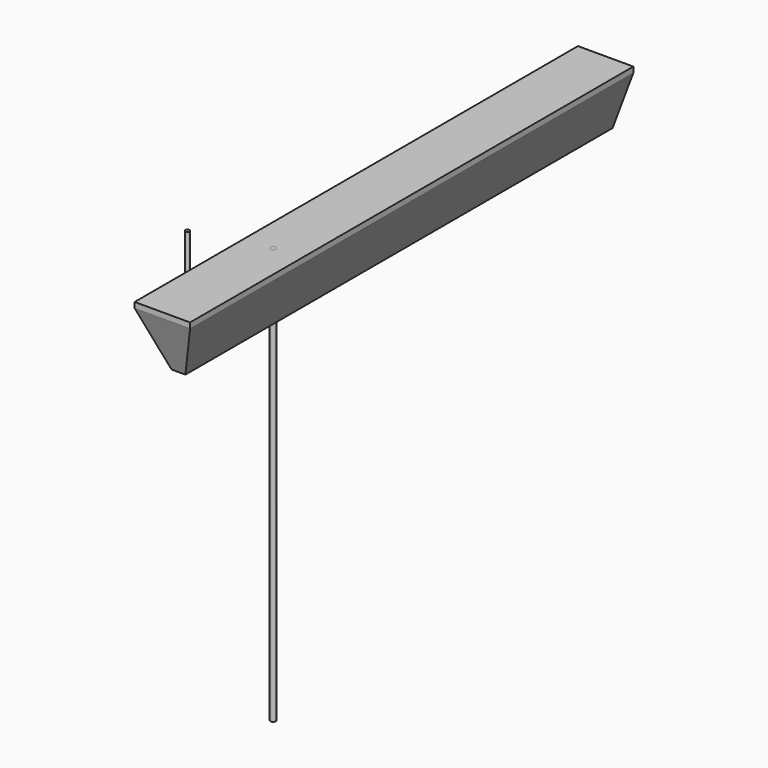
from build123d import *

# Parameters (mm, degrees)
F0_W      = 20
F0_H      = 200
F1_DEPTH  = 20
F3_DEPTH  = 200.001
F5_DEPTH  = 20.001
F6_W      = 20
F6_H      = 200
F7_DEPTH  = 2
F8_R      = 1
F9_DEPTH  = 150
F10_R     = 0.75
F11_DEPTH = 20


with BuildPart() as f1:
    # F0 (on Top) → F1 (new body)
    with BuildSketch(Plane.XY):
        with Locations((10, 100)):
            Rectangle(F0_W, F0_H)
    extrude(amount=F1_DEPTH)

    # F2 (on face) → F3 (cut, through all)
    with BuildSketch(Plane.XZ):
        Polygon((7.5, 0), (0, 20), (0, 0), align=None)
        Polygon((20, 20), (12.5, 0), (20, 0), align=None)
    extrude(amount=-F3_DEPTH, mode=Mode.SUBTRACT)

    # F4 (on Right) → F5 (cut, through all)
    with BuildSketch(Plane.YZ):
        Polygon((0, 20), (0, 0), (7.2794046853, 0), align=None)
    extrude(amount=F5_DEPTH, mode=Mode.SUBTRACT)


with BuildPart() as f7:
    # F6 (on face) → F7 (new body)
    with BuildSketch(Plane.XY.offset(20)):
        with Locations((10, 100)):
            Rectangle(F6_W, F6_H)
    extrude(amount=F7_DEPTH)


with BuildPart() as f9:
    # F8 (on face) → F9 (new body)
    with BuildSketch(Plane.XY.offset(22)):
        with Locations((10, 50)):
            Circle(F8_R)
    extrude(amount=-F9_DEPTH)


with BuildPart() as f11:
    # F10 (on Top) → F11 (new body)
    with BuildSketch(Plane.XY):
        with Locations((-17.920082435, 46.270493418)):
            Circle(F10_R)
    extrude(amount=F11_DEPTH)


solid = Compound([f1.part, f7.part, f9.part, f11.part])
